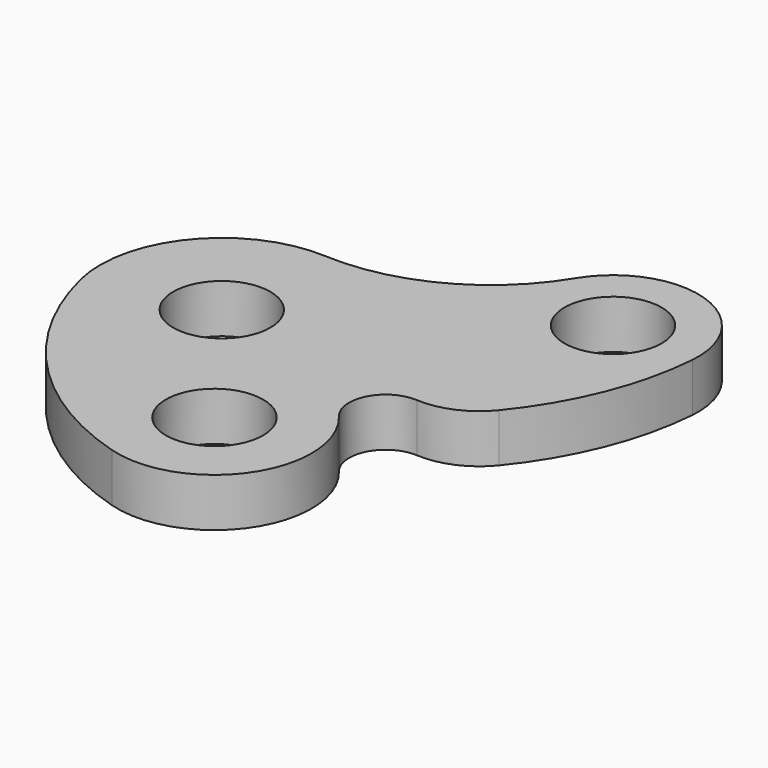
from build123d import *

# Parameters (mm, degrees)
F0_R     = 10
F1_DEPTH = 10


with BuildPart() as f1:
    # F0 (on Top) → F1 (new body)
    with BuildSketch(Plane.XY):
        with BuildLine():
            ThreePointArc((1.304766, 24.965929), (-19.255297, 15.944702), (-24.284847, -5.93685))
            ThreePointArc((-24.284847, -5.93685), (-9.512511, -33.001447), (16.750607, -49.155795))
            ThreePointArc((16.750607, -49.155795), (39.169931, -41.050494), (37.904534, -17.244596))
            ThreePointArc((37.904534, -17.244596), (36.990811, -9.071889), (44.120823, -4.974213))
            ThreePointArc((44.120823, -4.974213), (51.030762, -3.734261), (56.619703, 0.514089))
            ThreePointArc((56.619703, 0.514089), (65.792763, 16.032989), (69.941986, 33.576228))
            ThreePointArc((69.941986, 33.576228), (57.909572, 51.642912), (37.554206, 44.103474))
            ThreePointArc((37.554206, 44.103474), (22.067235, 29.538399), (1.304766, 24.965929))
        make_face()
        Circle(F0_R, mode=Mode.SUBTRACT)
        with Locations((22.5, -30)):
            Circle(F0_R, mode=Mode.SUBTRACT)
        with Locations((52.5, 35)):
            Circle(F0_R, mode=Mode.SUBTRACT)
    extrude(amount=F1_DEPTH)


solid = f1.part
